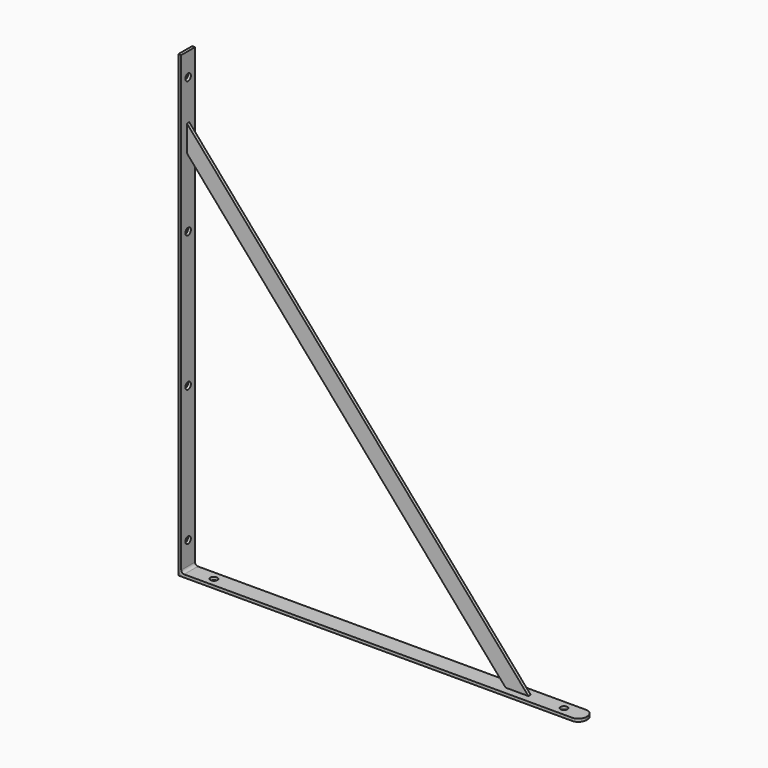
from build123d import *

# Parameters (mm, degrees)
SKETCH002_R      = 3
EXTRUDE002_DEPTH = 10
SKETCH001_R      = 3
EXTRUDE001_DEPTH = 10
EXTRUDE_DEPTH    = 15
EXTRUDE003_DEPTH = 2.5
FILLET_R         = 7
FILLET001_R      = 7
FILLET002_R      = 2.5
FILLET003_R      = 5


with BuildPart() as extrude002:
    # Sketch002 (on Face1 of Extrude) → Extrude002 (new body)
    with BuildSketch(Plane(origin=(0, 0, 0), x_dir=(0, -1, 0), z_dir=(-1, 0, 0))):
        with Locations((-7.5, 25)):
            Circle(SKETCH002_R)
        with Locations((-7.5, 143.333333)):
            Circle(SKETCH002_R)
        with Locations((-7.5, 261.666667)):
            Circle(SKETCH002_R)
        with Locations((-7.5, 380)):
            Circle(SKETCH002_R)
    extrude(amount=-EXTRUDE002_DEPTH)


with BuildPart() as extrude001:
    # Sketch001 (on Face4 of Extrude) → Extrude001 (new body)
    with BuildSketch(Plane.XY.offset(2.5)):
        with Locations((25, 7.5)):
            Circle(SKETCH001_R)
        with Locations((330, 7.5)):
            Circle(SKETCH001_R)
    extrude(amount=-EXTRUDE001_DEPTH)


with BuildPart() as cut001:
    # Sketch → Extrude (new body)
    with BuildSketch(Plane.XZ):
        Polygon((0, 0), (350, 0), (350, 2.5), (2.5, 2.5), (2.5, 400), (0, 400), align=None)
    extrude(amount=-EXTRUDE_DEPTH)

    # Cut: cut Extrude001
    add(extrude001.part, mode=Mode.SUBTRACT)

    # Cut001: cut Extrude002
    add(extrude002.part, mode=Mode.SUBTRACT)


with BuildPart() as fillet_body:
    # Sketch003 → Extrude003 (new body)
    with BuildSketch(Plane.XZ):
        Polygon((300, 2.5), (280.131432, 2.5), (2.5, 322.126103), (2.5, 345), align=None)
    extrude(amount=-EXTRUDE003_DEPTH)


with BuildPart() as fillet_body_1:
    # Extrude003 placement: moved
    add(fillet_body.part.moved(Location((0, 6.25, 0))))

    # Fusion: union Cut001
    add(cut001.part)

    # Fillet
    fillet_edges = [fillet_body_1.edges().sort_by_distance(p)[0] for p in [
        (350, 0, 1.25),
        (350, 15, 1.25),
    ]]
    fillet(fillet_edges, radius=FILLET_R)


with BuildPart() as fillet001:
    # Fillet001 base: copy of Fillet body
    add(fillet_body_1.part)

    # Fillet001
    fillet001_edges = [fillet001.edges().sort_by_distance(p)[0] for p in [
        (1.25, 0, 400),
        (1.25, 15, 400),
    ]]
    fillet(fillet001_edges, radius=FILLET001_R)


with BuildPart() as fillet003:
    # Fillet002 base: copy of Fillet body
    add(fillet_body_1.part)

    # Fillet002
    fillet002_edges = [fillet003.edges().sort_by_distance(p)[0] for p in [
        (2.5, 7.5, 2.5),
    ]]
    fillet(fillet002_edges, radius=FILLET002_R)

    # Fillet003
    fillet003_edges = [fillet003.edges().sort_by_distance(p)[0] for p in [
        (0, 7.5, 0),
    ]]
    fillet(fillet003_edges, radius=FILLET003_R)


solid = Compound([fillet001.part, fillet003.part])
